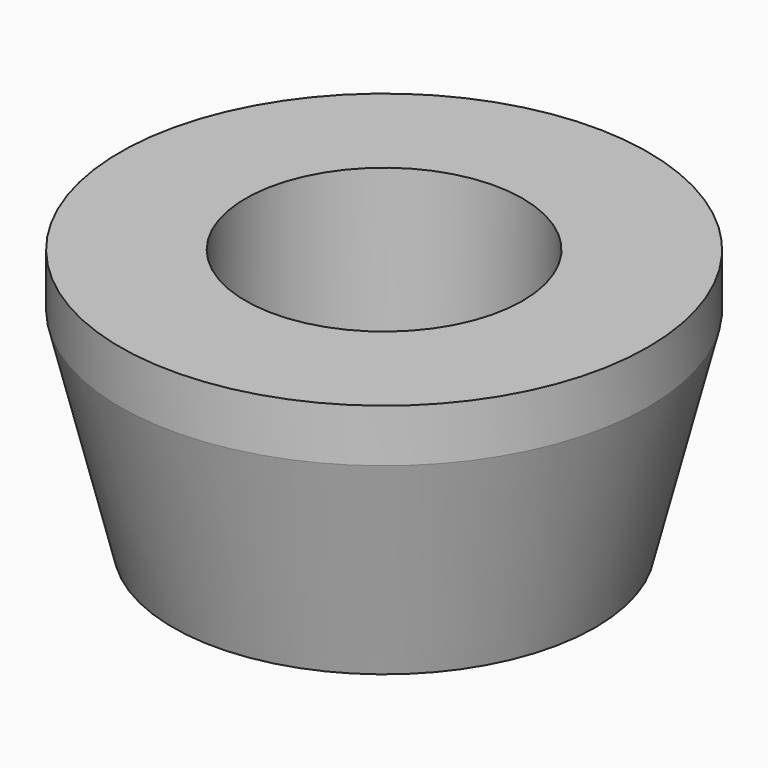
from build123d import *

# Parameters (mm, degrees)
F0_R     = 10
F0_R_2   = 5.25
F1_DEPTH = 10
F2_R     = 5.25
F2_R_2   = 2.25
F3_DEPTH = 3
F4_SIZE  = 2
F5_SIZE2 = 2
F5_SIZE  = 8


with BuildPart() as f1:
    # F0 (on Top) → F1 (new body)
    with BuildSketch(Plane.XY):
        Circle(F0_R)
        Circle(F0_R_2, mode=Mode.SUBTRACT)
    extrude(amount=F1_DEPTH)

    # F2 (on Top) → F3 (join)
    with BuildSketch(Plane.XY):
        Circle(F2_R)
        Circle(F2_R_2, mode=Mode.SUBTRACT)
    extrude(amount=F3_DEPTH)

    # F4
    f4_edges = [f1.edges().sort_by_distance(p)[0] for p in [
        (-2.25, 0, 0),
    ]]
    chamfer(f4_edges, length=F4_SIZE)

    # F5
    f5_edges = [f1.edges().sort_by_distance(p)[0] for p in [
        (-10, 0, 0),
    ]]
    f5_side = f1.faces().sort_by_distance((-10, 0, 5))[0]
    chamfer(f5_edges, length=F5_SIZE, length2=F5_SIZE2, reference=f5_side)


solid = f1.part
